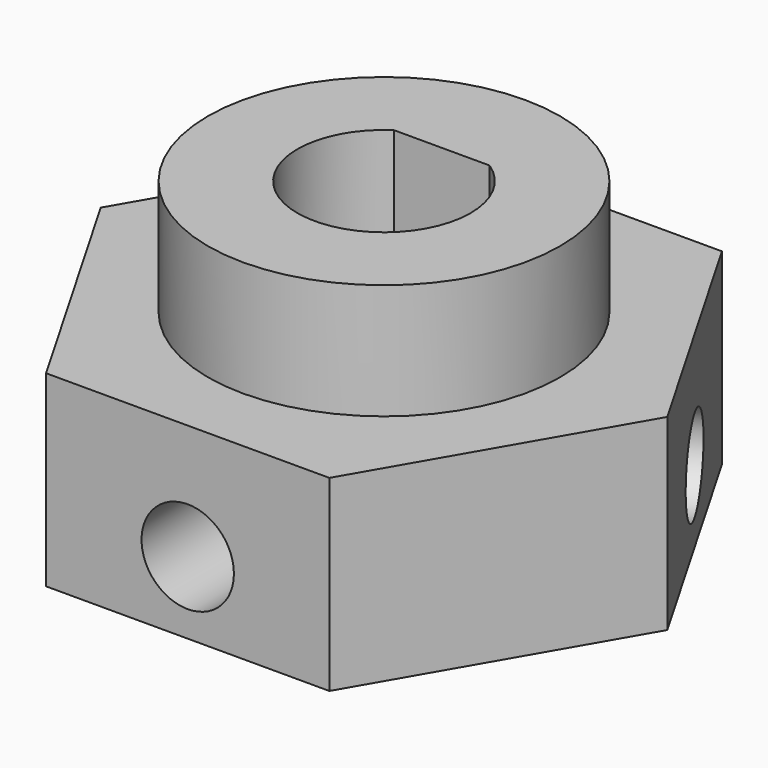
from build123d import *

# Parameters (mm, degrees)
SKETCH_R        = 3
PAD_DEPTH       = 6.5
SKETCH001_R     = 6.1
SKETCH001_R_2   = 3
PAD001_DEPTH    = 10
PAD002_DEPTH    = 13
SKETCH003_R     = 6.1
POCKET_DEPTH    = 6
POCKET001_DEPTH = 5
SKETCH005_R     = 1.6
POCKET002_DEPTH = 17.001
SKETCH006_R     = 1.6
POCKET003_DEPTH = 21.251


with BuildPart() as part:
    # Sketch → Pad (new body)
    with BuildSketch(Plane.XY):
        Polygon((9.814955, 0), (4.907477, 8.5), (-4.907477, 8.5), (-9.814955, 0), (-4.907477, -8.5), (4.907477, -8.5), align=None)
        Circle(SKETCH_R, mode=Mode.SUBTRACT)
    extrude(amount=PAD_DEPTH)

    # Sketch001 (on Face9 of Pad) → Pad001 (join)
    with BuildSketch(Plane.XY.offset(6.5)):
        Circle(SKETCH001_R)
        Circle(SKETCH001_R_2, mode=Mode.SUBTRACT)
    extrude(amount=PAD001_DEPTH)

    # Sketch002 (on Face12 of Pad001) → Pad002 (join)
    with BuildSketch(Plane.XY.offset(16.5)):
        with BuildLine():
            Line((-1.658312, 2.5), (1.658312, 2.5))
            ThreePointArc((1.658312, 2.5), (0, 3), (-1.658312, 2.5))
        make_face()
    extrude(amount=-PAD002_DEPTH)

    # Sketch003 (on Face15 of Pad002) → Pocket (cut)
    with BuildSketch(Plane.XY.offset(16.5)):
        Circle(SKETCH003_R)
    extrude(amount=-POCKET_DEPTH, mode=Mode.SUBTRACT)

    # Sketch004 (on Face4 of Pocket) → Pocket001 (cut)
    with BuildSketch(Plane(origin=(0, 0, 0), x_dir=(1, 0, 0), z_dir=(0, 0, -1))):
        Polygon((2.886751, 5), (-2.886751, 5), (-5.773503, 0), (-2.886751, -5), (2.886751, -5), (5.773503, 0), align=None)
    extrude(amount=-POCKET001_DEPTH, mode=Mode.SUBTRACT)

    # Sketch005 (on Face6 of Pocket001) → Pocket002 (cut, through all)
    with BuildSketch(Plane.XZ.offset(8.5)):
        with Locations((0, 2.5)):
            Circle(SKETCH005_R)
    extrude(amount=-POCKET002_DEPTH, mode=Mode.SUBTRACT)

    # Sketch006 → Pocket003 (cut, through all)
    with BuildSketch(Plane(origin=(7.361216, 4.25, 0), x_dir=(-0.5, 0.866025, 0), z_dir=(0.866025, 0.5, 0))):
        with Locations((0, 2.5)):
            Circle(SKETCH006_R)
    extrude(amount=-POCKET003_DEPTH, mode=Mode.SUBTRACT)


solid = part.part
